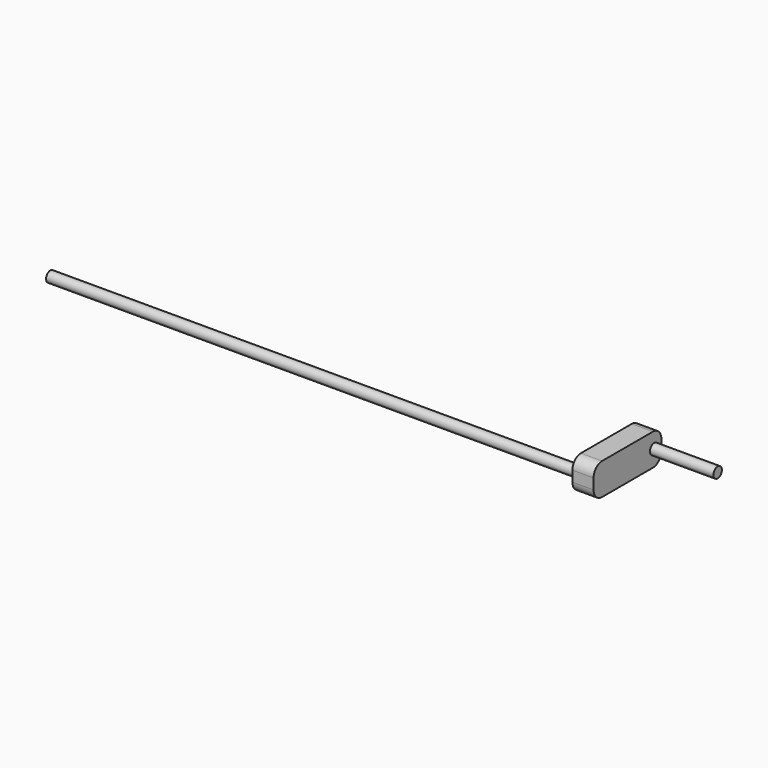
from build123d import *

# Parameters (mm, degrees)
F0_W     = 40
F0_H     = 15
F0_R     = 2.5
F1_DEPTH = 10
F2_R     = 5
F3_DEPTH = 40
F4_DEPTH = 250


with BuildPart() as f1:
    # F0 (on Right) → F1 (new body)
    with BuildSketch(Plane.YZ):
        Rectangle(F0_W, F0_H)
        with Locations((-15.766867, 0)):
            Circle(F0_R, mode=Mode.SUBTRACT)
        with Locations((15.766867, 0)):
            Circle(F0_R, mode=Mode.SUBTRACT)
        with Locations((-15.766867, 0)):
            Circle(F0_R)
    extrude(amount=F1_DEPTH)

    # F2
    f2_edges = [f1.edges().sort_by_distance(p)[0] for p in [
        (5, -20, 7.5),
        (5, 20, 7.5),
        (5, -20, -7.5),
        (5, 20, -7.5),
    ]]
    fillet(f2_edges, radius=F2_R)

    # F0 (on Right) → F3 (join)
    with BuildSketch(Plane.YZ):
        with Locations((15.766867, 0)):
            Circle(F0_R)
    extrude(amount=F3_DEPTH)

    # F0 (on Right) → F4 (join)
    with BuildSketch(Plane.YZ):
        with Locations((-15.766867, 0)):
            Circle(F0_R)
    extrude(amount=-F4_DEPTH)


solid = f1.part
